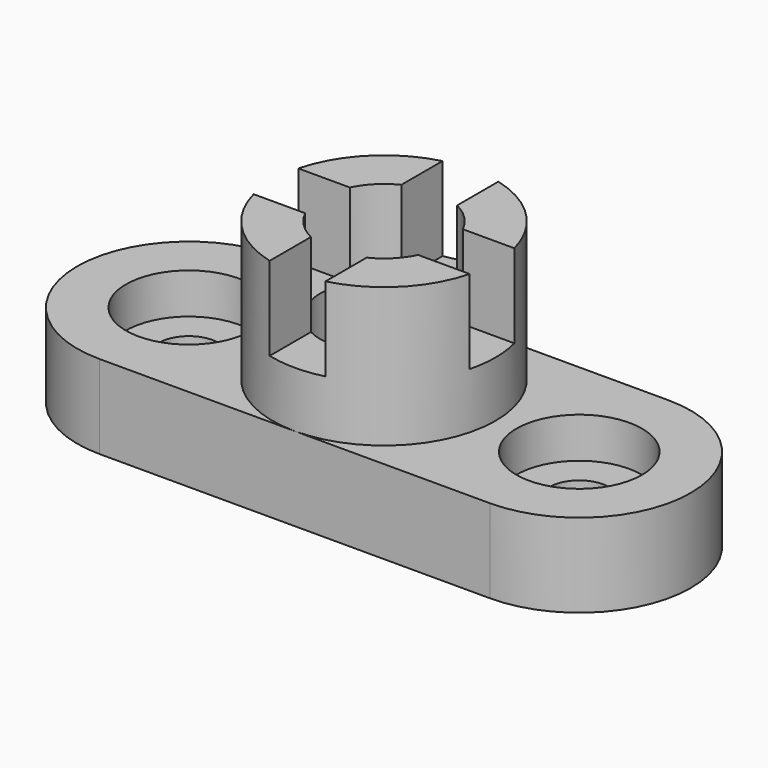
from build123d import *

# Parameters (mm, degrees)
F0_R     = 6.7437
F1_DEPTH = 19.05
F2_R     = 14.2875
F3_DEPTH = 9.2456
F4_R     = 25.4
F5_DEPTH = 31.75
F6_R     = 14.351
F7_DEPTH = 50.801
F9_DEPTH = 19.05


with BuildPart() as f1:
    # F0 (on Top) → F1 (new body)
    with BuildSketch(Plane.XY):
        with BuildLine():
            Line((88.9, 25.4), (0, 25.4))
            ThreePointArc((0, 25.4), (-25.4, 0), (0, -25.4))
            Line((0, -25.4), (88.9, -25.4))
            ThreePointArc((88.9, -25.4), (114.3, 0), (88.9, 25.4))
        make_face()
        Circle(F0_R, mode=Mode.SUBTRACT)
        with Locations((88.9, 0)):
            Circle(F0_R, mode=Mode.SUBTRACT)
    extrude(amount=F1_DEPTH)

    # F2 (on face) → F3 (cut)
    with BuildSketch(Plane.XY.offset(19.05)):
        Circle(F2_R)
        with Locations((88.9, 0)):
            Circle(F2_R)
    extrude(amount=-F3_DEPTH, mode=Mode.SUBTRACT)

    # F4 (on face) → F5 (join)
    with BuildSketch(Plane.XY.offset(19.05)):
        with Locations((44.45, 0)):
            Circle(F4_R)
    extrude(amount=F5_DEPTH)

    # F6 (on face) → F7 (cut, through all)
    with BuildSketch(Plane.XY.offset(50.8)):
        with Locations((44.45, 0)):
            Circle(F6_R)
    extrude(amount=-F7_DEPTH, mode=Mode.SUBTRACT)

    # F8 (on face) → F9 (cut)
    with BuildSketch(Plane.XY.offset(50.8)):
        Polygon((47.625, 34.3662), (44.45, 34.3662), (38.1, 34.3662), (38.1, 6.35), (10.085537, 6.35), (10.085537, 0), (10.085537, -6.35), (38.1, -6.35), (38.1, -34.3662), (44.45, -34.3662), (47.625, -34.3662), align=None)
        Polygon((50.8, 34.3662), (47.625, 34.3662), (47.625, -34.3662), (50.8, -34.3662), (50.8, -6.35), (78.8162, -6.35), (78.8162, 0), (78.8162, 6.35), (50.8, 6.35), align=None)
    extrude(amount=-F9_DEPTH, mode=Mode.SUBTRACT)


solid = f1.part
